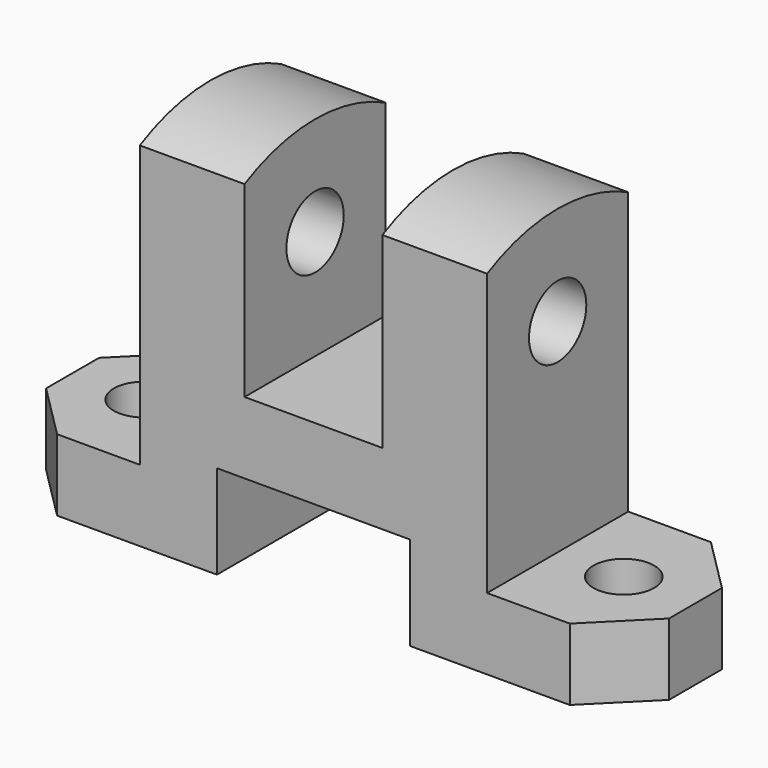
from build123d import *

# Parameters (mm, degrees)
F1_DEPTH  = 32
F3_DEPTH  = 19
F5_DEPTH  = 19
F7_DEPTH  = 25
F8_R      = 5.506936
F9_DEPTH  = 13.001
F10_R     = 6.5
F11_DEPTH = 88.001


with BuildPart() as f1:
    # F0 (on Front) → F1 (new body)
    with BuildSketch(Plane.XZ):
        Polygon((-25, 13), (-25, 0), (14, 0), (14, 17), (49, 17), (49, 0), (88, 0), (88, 13), (63, 13), (63, 64), (44, 64), (44, 30), (19, 30), (19, 64), (0, 64), (0, 13), align=None)
    extrude(amount=F1_DEPTH)

    # F2 (on face) → F3 (join)
    with BuildSketch(Plane.YZ.offset(63)):
        with BuildLine():
            Line((-32, 64), (0, 64))
            ThreePointArc((0, 64), (-16, 67.871235), (-32, 64))
        make_face()
    extrude(amount=-F3_DEPTH)

    # F4 (on face) → F5 (join)
    with BuildSketch(Plane(origin=(0, 0, 0), x_dir=(0, -1, 0), z_dir=(-1, 0, 0))):
        with BuildLine():
            Line((0, 64), (32, 64))
            ThreePointArc((32, 64), (16, 67.871235), (0, 64))
        make_face()
    extrude(amount=-F5_DEPTH)

    # F6 (on face) → F7 (cut)
    with BuildSketch(Plane.XY.offset(13)):
        Polygon((-25, -10), (-15, 0), (-25, 0), align=None)
        Polygon((-25, -22), (-25, -32), (-15, -32), align=None)
    extrude(amount=-F7_DEPTH, mode=Mode.SUBTRACT)

    # F8 (on face) → F9 (cut, through all)
    with BuildSketch(Plane.XY.offset(13)):
        with Locations((75, -16)):
            Circle(F8_R)
        Polygon((88, 0), (78, 0), (88, -10), align=None)
        Polygon((88, -32), (88, -22), (78, -32), align=None)
        with Locations((-12, -16)):
            Circle(F8_R)
    extrude(amount=-F9_DEPTH, mode=Mode.SUBTRACT)

    # F10 (on face) → F11 (cut, through all)
    with BuildSketch(Plane.YZ.offset(63)):
        with Locations((-16, 49.871235)):
            Circle(F10_R)
    extrude(amount=-F11_DEPTH, mode=Mode.SUBTRACT)


solid = f1.part
